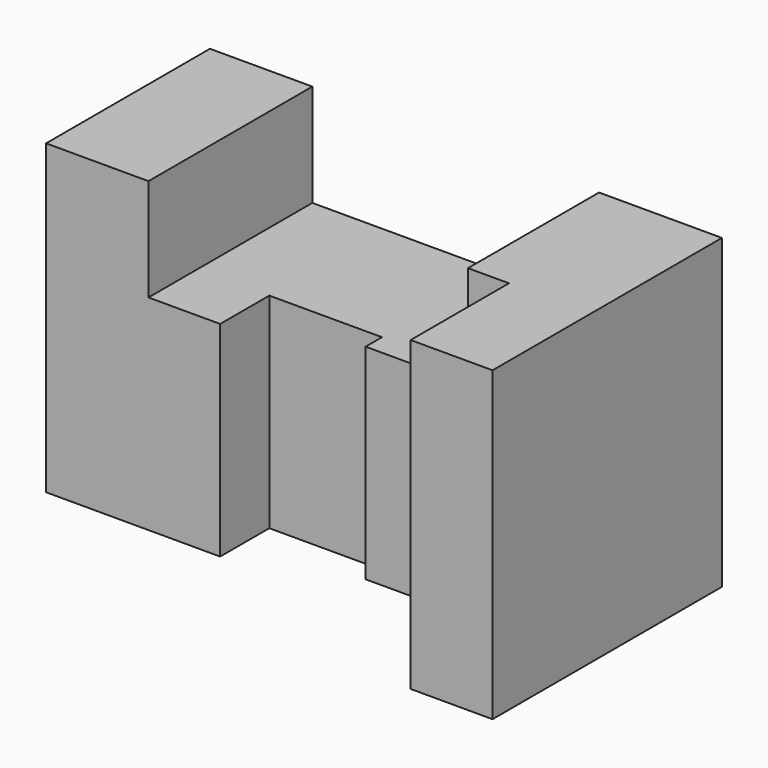
from build123d import *

# Parameters (mm, degrees)
F0_W      = 50
F0_H      = 75
F1_DEPTH  = 25
F2_W      = 50
F2_H      = 50
F3_DEPTH  = 17.5
F4_W      = 35
F4_H      = 50
F5_DEPTH  = 27.5
F6_W      = 40
F6_H      = 50
F7_DEPTH  = 25
F8_W      = 40
F8_H      = 75
F9_DEPTH  = 10
F10_W     = 70
F10_H     = 75
F11_DEPTH = 20


with BuildPart() as f1:
    # F0 (on Right) → F1 (new body)
    with BuildSketch(Plane.YZ):
        with Locations((-25, 37.5)):
            Rectangle(F0_W, F0_H)
    extrude(amount=F1_DEPTH)

    # F2 (on face) → F3 (join)
    with BuildSketch(Plane.YZ.offset(25)):
        with Locations((-25, 25)):
            Rectangle(F2_W, F2_H)
    extrude(amount=F3_DEPTH)

    # F4 (on face) → F5 (join)
    with BuildSketch(Plane.YZ.offset(42.5)):
        with Locations((-17.5, 25)):
            Rectangle(F4_W, F4_H)
    extrude(amount=F5_DEPTH)

    # F6 (on face) → F7 (join)
    with BuildSketch(Plane.YZ.offset(70)):
        with Locations((-20, 25)):
            Rectangle(F6_W, F6_H)
    extrude(amount=F7_DEPTH)

    # F8 (on face) → F9 (join)
    with BuildSketch(Plane.YZ.offset(95)):
        with Locations((-20, 37.5)):
            Rectangle(F8_W, F8_H)
    extrude(amount=F9_DEPTH)

    # F10 (on face) → F11 (join)
    with BuildSketch(Plane.YZ.offset(105)):
        with Locations((-35, 37.5)):
            Rectangle(F10_W, F10_H)
    extrude(amount=F11_DEPTH)


solid = f1.part
